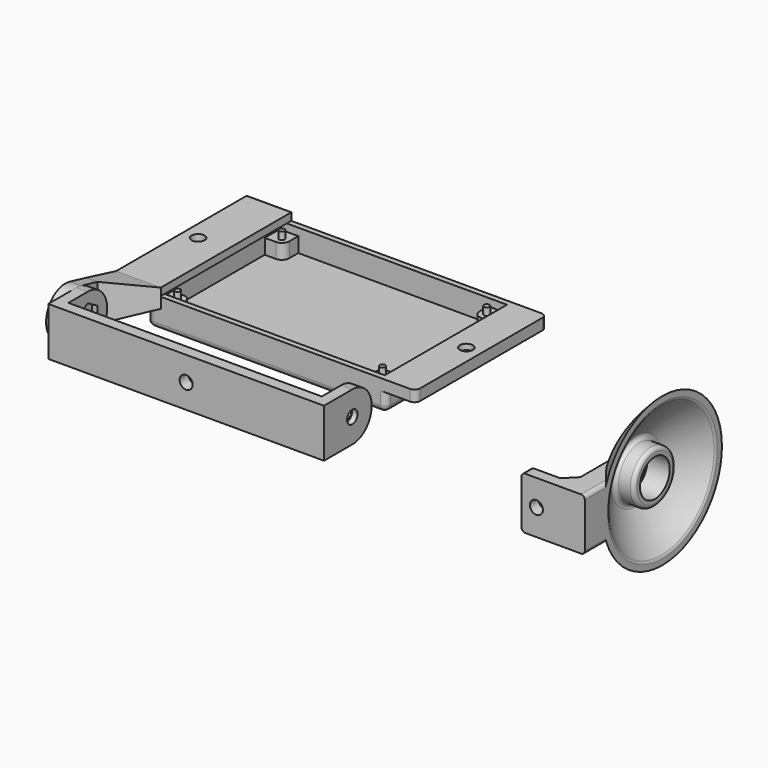
from build123d import *

# Parameters (mm, degrees)
SKETCH_W                = 64
SKETCH_H                = 44
PAD_DEPTH               = 2
SKETCH004_W             = 64
SKETCH004_H             = 44
PAD001_DEPTH            = 6
SKETCH005_W             = 61
SKETCH005_H             = 41
POCKET_DEPTH            = 2.001
SKETCH006_W             = 80
SKETCH006_H             = 44
SKETCH006_W_2           = 61
SKETCH006_H_2           = 41
PAD002_DEPTH            = 3
SKETCH007_R             = 1.75
POCKET001_DEPTH         = 6.001
SKETCH008_R             = 0.75
PAD003_DEPTH            = 6
POCKET002_DEPTH         = 1.5
FILLET_R                = 1.5
SKETCH013_W             = 12
SKETCH013_H             = 2
PAD006_DEPTH            = 44.5
SKETCH015_W             = 3
SKETCH015_H             = 10
SKETCH014_W             = 12
SKETCH014_H             = 5
SKETCH012_R             = 1.75
PAD007_DEPTH            = 3
SKETCH016_R             = 1.75
POCKET003_DEPTH         = 6.501
FILLET001_R             = 1
SKETCH018_R             = 1.75
PAD008_DEPTH            = 3
SKETCH019_W             = 13
SKETCH019_H             = 3
PAD009_DEPTH            = 34
POCKET005_DEPTH         = 1.5
SKETCH020_R             = 1.75
POCKET004_DEPTH         = 9.501
BODY002_PLACEMENT_ANGLE = 90
PAD010_DEPTH            = 6
SKETCH027_R             = 7
PAD011_DEPTH            = 6
SKETCH028_R             = 5
POCKET006_DEPTH         = 9
SKETCH029_W             = 14
SKETCH029_H             = 3
PAD012_DEPTH            = 17
SKETCH030_R             = 1
POCKET007_DEPTH         = 17.001
CHAMFER_SIZE            = 3
SKETCH031_R             = 1.75
POCKET008_DEPTH         = 26.001032
FILLET002_R             = 1
BODY003_PLACEMENT_ANGLE = 90


with BuildPart() as brain:
    # Sketch → Pad (new body)
    with BuildSketch(Plane.XY):
        Rectangle(SKETCH_W, SKETCH_H)
    extrude(amount=-PAD_DEPTH)

    # Sketch004 → Pad001 (join)
    with BuildSketch(Plane.XY):
        Rectangle(SKETCH004_W, SKETCH004_H)
        with BuildLine():
            Line((-25.5, 20.5), (25.5, 20.5))
            Line((25.5, 17.5), (25.5, 20.5))
            ThreePointArc((25.5, 17.5), (26.085786, 16.085786), (27.5, 15.5))
            Line((27.5, 15.5), (30.5, 15.5))
            Line((30.5, 15.5), (30.5, -15.5))
            Line((27.5, -15.5), (30.5, -15.5))
            ThreePointArc((27.5, -15.5), (26.085786, -16.085786), (25.5, -17.5))
            Line((25.5, -17.5), (25.5, -20.5))
            Line((25.5, -20.5), (-25.5, -20.5))
            Line((-25.5, -17.5), (-25.5, -20.5))
            ThreePointArc((-25.5, -17.5), (-26.085786, -16.085786), (-27.5, -15.5))
            Line((-27.5, -15.5), (-30.5, -15.5))
            Line((-30.5, -15.5), (-30.5, 15.5))
            Line((-27.5, 15.5), (-30.5, 15.5))
            ThreePointArc((-27.5, 15.5), (-26.085786, 16.085786), (-25.5, 17.5))
            Line((-25.5, 17.5), (-25.5, 20.5))
        make_face(mode=Mode.SUBTRACT)
    extrude(amount=PAD001_DEPTH)

    # Sketch005 → Pocket (cut, through all)
    with BuildSketch(Plane.XY.offset(4)):
        Rectangle(SKETCH005_W, SKETCH005_H)
    extrude(amount=POCKET_DEPTH, mode=Mode.SUBTRACT)

    # Sketch006 → Pad002 (join)
    with BuildSketch(Plane.XY.offset(3)):
        Rectangle(SKETCH006_W, SKETCH006_H)
        Rectangle(SKETCH006_W_2, SKETCH006_H_2, mode=Mode.SUBTRACT)
    extrude(amount=PAD002_DEPTH)

    # Sketch007 → Pocket001 (cut, through all)
    with BuildSketch(Plane.XY):
        with Locations((-36, 0)):
            Circle(SKETCH007_R)
        with Locations((36, 0)):
            Circle(SKETCH007_R)
    extrude(amount=POCKET001_DEPTH, mode=Mode.SUBTRACT)

    # Sketch008 → Pad003 (join)
    with BuildSketch(Plane.XY):
        with Locations((-27.5, 17.5)):
            Circle(SKETCH008_R)
        with Locations((-27.5, -17.5)):
            Circle(SKETCH008_R)
        with Locations((27.5, -17.5)):
            Circle(SKETCH008_R)
        with Locations((27.5, 17.5)):
            Circle(SKETCH008_R)
    extrude(amount=PAD003_DEPTH)

    # Sketch009 → Pocket002 (cut)
    with BuildSketch(Plane.XY.offset(3)):
        Polygon((-36, -3.752777), (-32.75, -1.876388), (-32.75, 1.876388), (-36, 3.752777), (-39.25, 1.876388), (-39.25, -1.876388), align=None)
        Polygon((36, -3.752777), (39.25, -1.876388), (39.25, 1.876388), (36, 3.752777), (32.75, 1.876388), (32.75, -1.876388), align=None)
    extrude(amount=POCKET002_DEPTH, mode=Mode.SUBTRACT)

    # Fillet
    fillet_edges = [brain.edges().sort_by_distance(p)[0] for p in [
        (0, 22, -2),
        (32, 0, -2),
        (0, -22, -2),
        (-32, 0, -2),
        (-32, -22, 1.5),
        (-32, 22, 1.5),
        (-40, -22, 4.5),
        (-40, 22, 4.5),
        (32, -22, 1.5),
        (40, -22, 4.5),
        (32, 22, 1.5),
        (40, 22, 4.5),
    ]]
    fillet(fillet_edges, radius=FILLET_R)


with BuildPart() as holder:
    # Sketch013 → Pad006 (new body)
    with BuildSketch(Plane.XZ):
        with Locations((-6, 1.5)):
            Rectangle(SKETCH013_W, SKETCH013_H)
    extrude(amount=-PAD006_DEPTH)

    # Sketch015 → AdditiveLoft section 0
    with BuildSketch(Plane.XZ.offset(10)):
        with Locations((-1.5, 0)):
            Rectangle(SKETCH015_W, SKETCH015_H)
    # Sketch014 → AdditiveLoft section 1
    with BuildSketch(Plane.XZ):
        with Locations((-6, 0)):
            Rectangle(SKETCH014_W, SKETCH014_H)
    loft()

    # Sketch012 → Pad007 (join)
    with BuildSketch(Plane.YZ):
        with BuildLine():
            Line((-10, 5), (-10, -5))
            Line((-10, -5), (-15.478084, -6.319317))
            ThreePointArc((-15.478084, 6.319317), (-23.5, 0), (-15.478084, -6.319317))
            Line((-10, 5), (-15.478084, 6.319317))
        make_face()
        with Locations((-17, 0)):
            Circle(SKETCH012_R, mode=Mode.SUBTRACT)
    extrude(amount=-PAD007_DEPTH)

    # Sketch016 → Pocket003 (cut, through all)
    with BuildSketch(Plane.XY):
        with Locations((-4, 22.5)):
            Circle(SKETCH016_R)
    extrude(amount=POCKET003_DEPTH, mode=Mode.SUBTRACT)

    # Fillet001
    fillet001_edges = [holder.edges().sort_by_distance(p)[0] for p in [
        (-12, 44.5, 1.5),
        (0, 44.5, 1.5),
        (-6, 44.5, 2.5),
    ]]
    fillet(fillet001_edges, radius=FILLET001_R)


with BuildPart() as holder_1:
    # Body001 placement: moved
    add(holder.part.moved(Location((40, -22.5, 6))))


with BuildPart() as part_mirroring:
    # Part__Mirroring: instance of holder
    add(holder_1.part.mirror(Plane(origin=(0, 0, 0), x_dir=(0, -1, 0), z_dir=(1, 0, 0))))


with BuildPart() as base:
    # Sketch018 → Pad008 (new body)
    with BuildSketch(Plane.YZ):
        with BuildLine():
            ThreePointArc((6.5, 0), (0, 6.5), (-6.5, 0))
            Line((-6.5, 0), (-6.5, -9.5))
            Line((6.5, -9.5), (-6.5, -9.5))
            Line((6.5, 0), (6.5, -9.5))
        make_face()
        Circle(SKETCH018_R, mode=Mode.SUBTRACT)
    pad008 = extrude(amount=PAD008_DEPTH)

    # Sketch019 → Pad009 (join)
    with BuildSketch(Plane.YZ):
        with Locations((0, -8)):
            Rectangle(SKETCH019_W, SKETCH019_H)
    pad009 = extrude(amount=-PAD009_DEPTH)

    # Sketch021 → Pocket005 (cut)
    with BuildSketch(Plane.YZ):
        Polygon((1.876388, 3.25), (-1.876388, 3.25), (-3.752777, 0), (-1.876388, -3.25), (1.876388, -3.25), (3.752777, 0), align=None)
    pocket005 = extrude(amount=POCKET005_DEPTH, mode=Mode.SUBTRACT)

    # Mirrored: Pad009, Pad008, Pocket005 across face of Pad009
    add(pad009.mirror(Plane(origin=(-34, 0, -8), x_dir=(0, -1, 0), z_dir=(-1, 0, 0))))
    add(pad008.mirror(Plane(origin=(-34, 0, -8), x_dir=(0, -1, 0), z_dir=(-1, 0, 0))))
    add(pocket005.mirror(Plane(origin=(-34, 0, -8), x_dir=(0, -1, 0), z_dir=(-1, 0, 0))), mode=Mode.SUBTRACT)

    # Sketch020 → Pocket004 (cut, through all)
    with BuildSketch(Plane.XY):
        with Locations((-34, 0)):
            Circle(SKETCH020_R)
    extrude(amount=-POCKET004_DEPTH, mode=Mode.SUBTRACT)


with BuildPart() as base_1:
    # Body002 placement: moved
    add(base.part.moved(Location((34, -39.5, 6))).rotate(Axis((34, -39.5, 6), (-1, 0, 0)), BODY002_PLACEMENT_ANGLE))


with BuildPart() as ear:
    # Sketch023 → Revolution (revolve)
    with BuildSketch(Plane.XZ):
        with BuildLine():
            add(Edge.make_bspline(
                [(0, 20), (10, 10), (10, 0)],
                knots=[-20, -20, -20, 0, 0, 0], degree=2))
            Line((10, 0), (0, 0))
            Line((0, 0), (0, 20))
        make_face()
    revolve(axis=Axis((0, 0, 0), (1, 0, 0)))

    # Sketch025 → Pad010 (new body)
    with BuildSketch(Plane.YZ.offset(6)):
        with BuildLine():
            ThreePointArc((7, 0), (0, 7), (-7, 0))
            Line((-7, 0), (-7, -26.000032))
            Line((-7, -26.000032), (7, -26.000032))
            Line((7, -26.000032), (7, 0))
        make_face()
    extrude(amount=-PAD010_DEPTH)

    # Sketch026 → Groove (revolve, cut)
    with BuildSketch(Plane.XZ):
        with BuildLine():
            add(Edge.make_bspline(
                [(0, 18), (9, 9), (9, 0)],
                knots=[-18, -18, -18, 0, 0, 0], degree=2))
            Line((9, 0), (0, 0))
            Line((0, 0), (0, 18))
        make_face()
    revolve(axis=Axis((0, 0, 0), (1, 0, 0)), mode=Mode.SUBTRACT)

    # Sketch027 → Pad011 (join)
    with BuildSketch(Plane.YZ.offset(8)):
        Circle(SKETCH027_R)
    extrude(amount=-PAD011_DEPTH)

    # Sketch028 → Pocket006 (cut)
    with BuildSketch(Plane.YZ):
        Circle(SKETCH028_R)
    extrude(amount=POCKET006_DEPTH, mode=Mode.SUBTRACT)

    # Sketch029 → Pad012 (join)
    with BuildSketch(Plane.YZ):
        with Locations((0, -24.500032)):
            Rectangle(SKETCH029_W, SKETCH029_H)
    extrude(amount=PAD012_DEPTH)

    # Sketch030 → Pocket007 (cut, through all)
    with BuildSketch(Plane.YZ):
        with Locations((0, -4)):
            Circle(SKETCH030_R)
    extrude(amount=POCKET007_DEPTH, mode=Mode.SUBTRACT)

    # Chamfer
    chamfer_edges = [ear.edges().sort_by_distance(p)[0] for p in [
        (6, 0, -23.000032),
    ]]
    chamfer(chamfer_edges, length=CHAMFER_SIZE)

    # Sketch031 → Pocket008 (cut, through all)
    with BuildSketch(Plane.XY):
        with Locations((13, 0)):
            Circle(SKETCH031_R)
    extrude(amount=-POCKET008_DEPTH, mode=Mode.SUBTRACT)

    # Fillet002
    fillet002_edges = [ear.edges().sort_by_distance(p)[0] for p in [
        (17, -7, -24.500032),
        (0, 7, -20.867513),
        (7.638889, 4.949747, 4.949747),
        (0, 17.642225, 3.570978),
        (0, -7, -20.867513),
        (7.638889, -4.949747, -4.949747),
        (2, -7, 0),
        (17, 7, -24.500032),
    ]]
    fillet(fillet002_edges, radius=FILLET002_R)


with BuildPart() as ear_1:
    # Body003 placement: moved
    add(ear.part.moved(Location((-107, -23, 7))).rotate(Axis((-107, -23, 7), (-1, 0, 0)), BODY003_PLACEMENT_ANGLE))


with BuildPart() as part_mirroring001:
    # Part__Mirroring001: instance of ear
    add(ear_1.part.mirror(Plane(origin=(0, 0, 0), x_dir=(0, -1, 0), z_dir=(1, 0, 0))))


solid = Compound([brain.part, part_mirroring.part, base_1.part, part_mirroring001.part])
